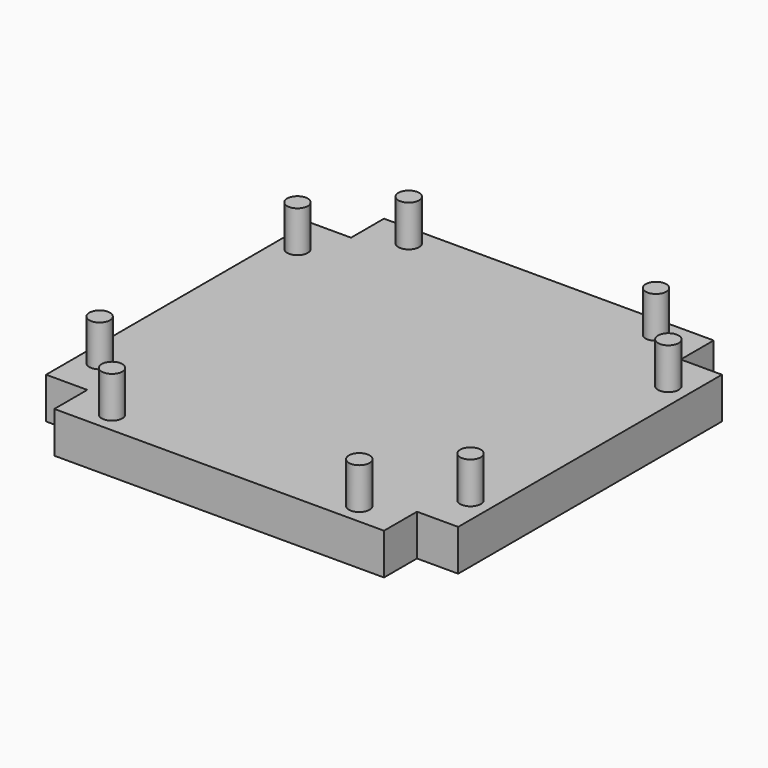
from build123d import *

# Parameters (mm, degrees)
F0_W     = 2.54
F0_H     = 20.32
F0_R     = 0.635
F0_W_2   = 20.32
F0_H_2   = 2.54
F1_DEPTH = 2.54
F2_DEPTH = 5.08


with BuildPart() as f1:
    # F0 (on Top) → F1 (new body)
    with BuildSketch(Plane.XY):
        with Locations((-11.43, 0)):
            Rectangle(F0_W, F0_H)
        with Locations((-11.43, -7.62)):
            Circle(F0_R, mode=Mode.SUBTRACT)
        with Locations((-11.43, 7.62)):
            Circle(F0_R, mode=Mode.SUBTRACT)
        with Locations((0, 11.43)):
            Rectangle(F0_W_2, F0_H_2)
        with Locations((-7.62, 11.43)):
            Circle(F0_R, mode=Mode.SUBTRACT)
        with Locations((7.62, 11.43)):
            Circle(F0_R, mode=Mode.SUBTRACT)
        Rectangle(F0_W_2, F0_H)
        with Locations((0, -11.43)):
            Rectangle(F0_W_2, F0_H_2)
        with Locations((-7.62, -11.43)):
            Circle(F0_R, mode=Mode.SUBTRACT)
        with Locations((7.62, -11.43)):
            Circle(F0_R, mode=Mode.SUBTRACT)
        with Locations((11.43, 0)):
            Rectangle(F0_W, F0_H)
        with Locations((11.43, -7.62)):
            Circle(F0_R, mode=Mode.SUBTRACT)
        with Locations((11.43, 7.62)):
            Circle(F0_R, mode=Mode.SUBTRACT)
    extrude(amount=F1_DEPTH)

    # F0 (on Top) → F2 (join)
    with BuildSketch(Plane.XY):
        with Locations((-11.43, 7.62)):
            Circle(F0_R)
        with Locations((-7.62, 11.43)):
            Circle(F0_R)
        with Locations((7.62, 11.43)):
            Circle(F0_R)
        with Locations((11.43, 7.62)):
            Circle(F0_R)
        with Locations((11.43, -7.62)):
            Circle(F0_R)
        with Locations((7.62, -11.43)):
            Circle(F0_R)
        with Locations((-7.62, -11.43)):
            Circle(F0_R)
        with Locations((-11.43, -7.62)):
            Circle(F0_R)
    extrude(amount=F2_DEPTH)


solid = f1.part
